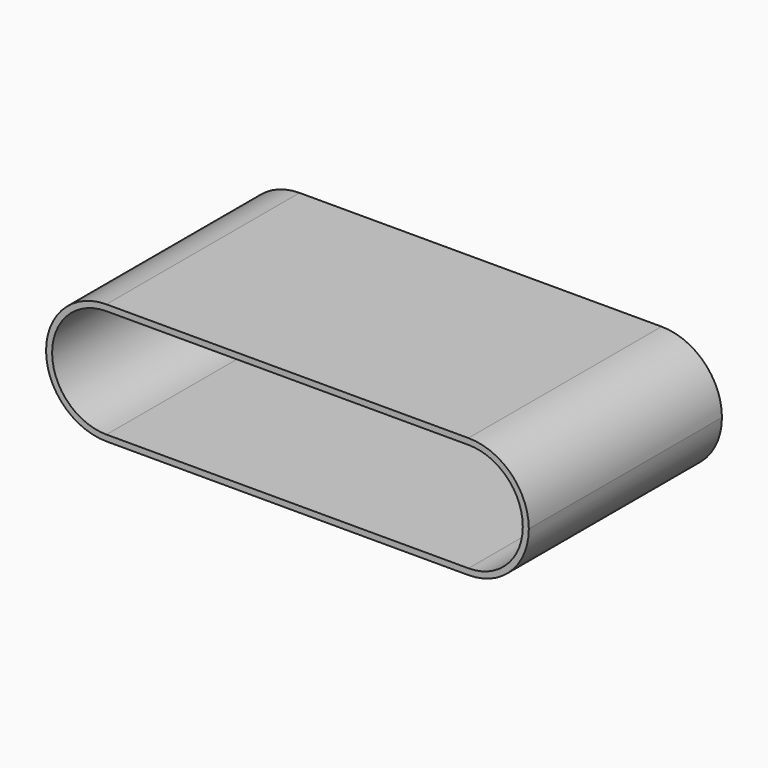
from build123d import *

# Parameters (mm, degrees)
F1_DEPTH = 508
F2_T     = -12.7


with BuildPart() as f1:
    # F0 (on Front) → F1 (new body)
    with BuildSketch(Plane.XZ):
        with BuildLine():
            ThreePointArc((0, -127), (89.802561, -89.802561), (127, 0))
            ThreePointArc((127, 0), (89.802561, 89.802561), (0, 127))
            ThreePointArc((0, 127), (-127, 0), (0, -127))
        make_face()
        with BuildLine():
            ThreePointArc((0, 127), (89.802561, 89.802561), (127, 0))
            ThreePointArc((127, 0), (89.802561, -89.802561), (0, -127))
            Line((0, -127), (762, -127))
            ThreePointArc((762, -127), (635, 0), (762, 127))
            Line((762, 127), (0, 127))
        make_face()
        with BuildLine():
            ThreePointArc((889, 0), (851.802561, 89.802561), (762, 127))
            ThreePointArc((762, 127), (635, 0), (762, -127))
            ThreePointArc((762, -127), (851.802561, -89.802561), (889, 0))
        make_face()
    extrude(amount=F1_DEPTH)

    # F2
    f2_openings = [f1.faces().sort_by_distance(p)[0] for p in [
        (381, -508, 0),
        (381, 0, 0),
    ]]
    offset(amount=F2_T, openings=f2_openings)


solid = f1.part
